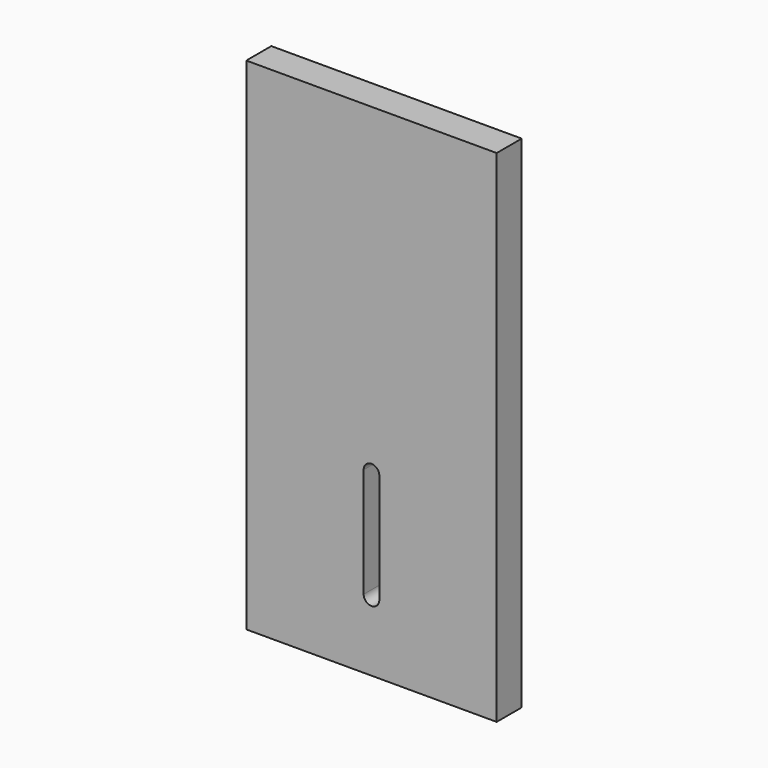
from build123d import *

# Parameters (mm, degrees)
F0_W     = 152.4
F0_H     = 304.8
F1_DEPTH = 19.05
F3_DEPTH = 19.05


with BuildPart() as f1:
    # F0 (on Front) → F1 (new body)
    with BuildSketch(Plane.XZ):
        with Locations((-16.46063, -11.088761)):
            Rectangle(F0_W, F0_H)
    extrude(amount=F1_DEPTH)

    # F2 (on face) → F3 (cut)
    with BuildSketch(Plane.XZ.offset(19.05)):
        with BuildLine():
            Line((-11.69813, -121.420361), (-11.69813, -54.710042))
            ThreePointArc((-11.69813, -54.710042), (-16.46063, -49.947542), (-21.22313, -54.710042))
            Line((-21.22313, -54.710042), (-21.22313, -121.420361))
            ThreePointArc((-21.22313, -121.420361), (-16.46063, -126.182861), (-11.69813, -121.420361))
        make_face()
    extrude(amount=-F3_DEPTH, mode=Mode.SUBTRACT)


solid = f1.part
